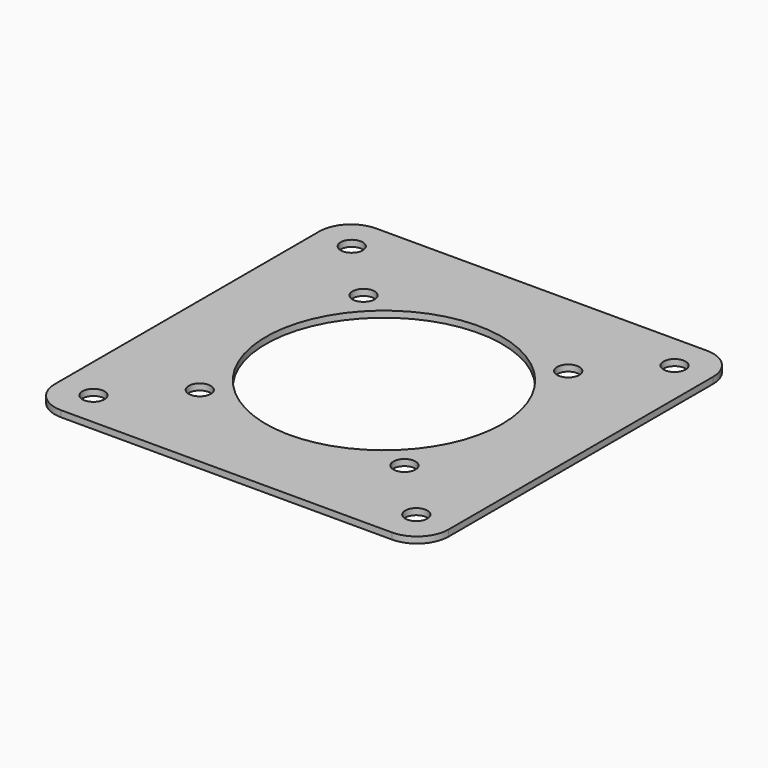
from build123d import *

# Parameters (mm, degrees)
F0_W     = 125
F0_H     = 125
F0_R     = 37.5
F1_DEPTH = 2
F2_R     = 3.5
F3_DEPTH = 2.001
F4_R     = 10


with BuildPart() as f1:
    # F0 (on Top) → F1 (new body)
    with BuildSketch(Plane.XY):
        Rectangle(F0_W, F0_H)
        Circle(F0_R, mode=Mode.SUBTRACT)
    extrude(amount=F1_DEPTH)

    # F2 (on Top) → F3 (cut, through all)
    with BuildSketch(Plane.XY):
        with Locations((-51.25, 51.25)):
            Circle(F2_R)
        with Locations((51.25, 51.25)):
            Circle(F2_R)
        with Locations((-51.25, -51.25)):
            Circle(F2_R)
        with Locations((51.25, -51.25)):
            Circle(F2_R)
        with Locations((-32.5, 32.5)):
            Circle(F2_R)
        with Locations((32.5, 32.5)):
            Circle(F2_R)
        with Locations((-32.5, -32.5)):
            Circle(F2_R)
        with Locations((32.5, -32.5)):
            Circle(F2_R)
    extrude(amount=F3_DEPTH, mode=Mode.SUBTRACT)

    # F4
    f4_edges = [f1.edges().sort_by_distance(p)[0] for p in [
        (62.5, -62.5, 1),
        (62.5, 62.5, 1),
        (-62.5, -62.5, 1),
        (-62.5, 62.5, 1),
    ]]
    fillet(f4_edges, radius=F4_R)


solid = f1.part
